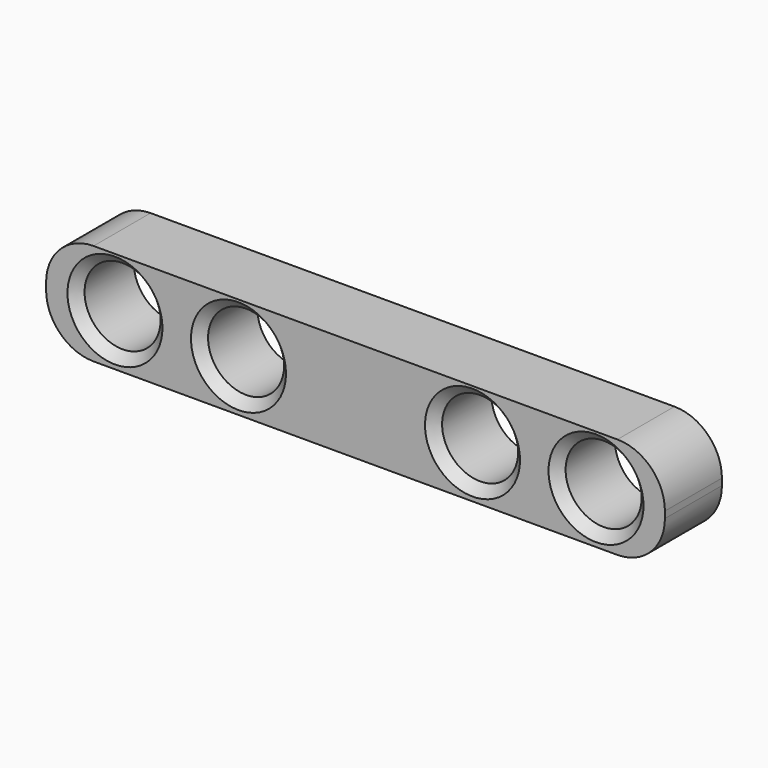
from build123d import *

# Parameters (mm, degrees)
F0_W     = 130.263165
F0_H     = 21.393939
F0_R     = 8
F1_DEPTH = 15
F2_R     = 10
F3_SIZE  = 2


with BuildPart() as f1:
    # F0 (on Front) → F1 (new body)
    with BuildSketch(Plane.XZ):
        with Locations((-1.332238, 27.719996)):
            Rectangle(F0_W, F0_H)
        with Locations((-51.963821, 27.916966)):
            Circle(F0_R, mode=Mode.SUBTRACT)
        with Locations((-25.963821, 27.916966)):
            Circle(F0_R, mode=Mode.SUBTRACT)
        with Locations((23.299344, 27.916966)):
            Circle(F0_R, mode=Mode.SUBTRACT)
        with Locations((49.299344, 27.916966)):
            Circle(F0_R, mode=Mode.SUBTRACT)
    extrude(amount=F1_DEPTH)

    # F2
    f2_edges = [f1.edges().sort_by_distance(p)[0] for p in [
        (63.799344, -7.5, 38.416966),
        (63.799344, -7.5, 17.023027),
        (-66.463821, -7.5, 38.416966),
        (-66.463821, -7.5, 17.023027),
    ]]
    fillet(f2_edges, radius=F2_R)

    # F3
    f3_edges = [f1.edges().sort_by_distance(p)[0] for p in [
        (-33.963821, -15, 27.916966),
        (15.299344, -15, 27.916966),
        (41.299344, -15, 27.916966),
        (-59.963821, -15, 27.916966),
    ]]
    chamfer(f3_edges, length=F3_SIZE)


solid = f1.part
